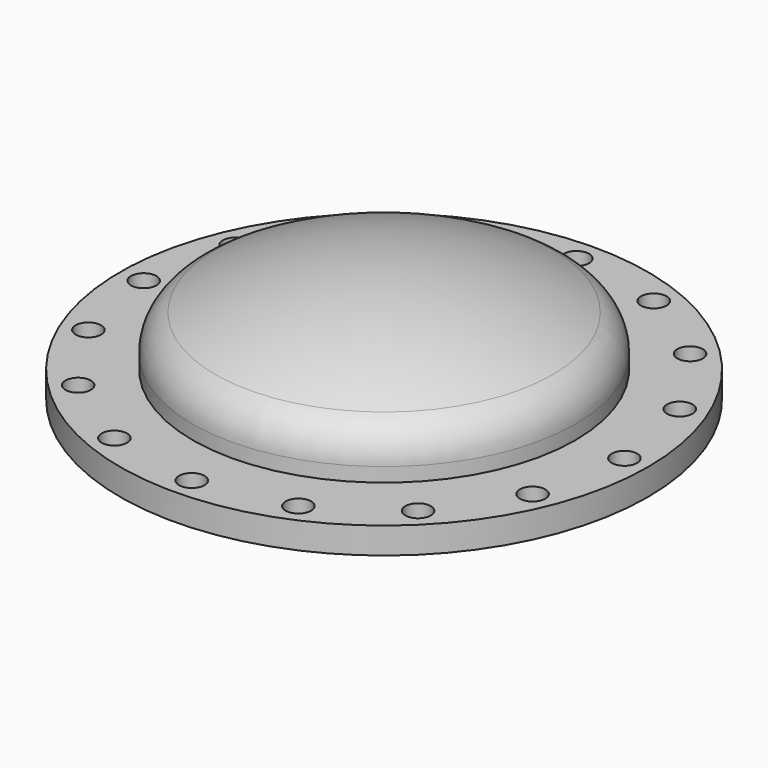
from build123d import *

# Parameters (mm, degrees)
F2_R          = 280
F2_R_2        = 200
F3_DEPTH      = 23
F3_DEPTH_BACK = 5
F4_R          = 13.5
F5_DEPTH      = 28


with BuildPart() as f1:
    # F0 (on Front) → F1 (revolve)
    with BuildSketch(Plane.XZ):
        with BuildLine():
            Line((200, 20), (200, 0))
            Line((200, 0), (203, 0))
            Line((203, 0), (203, 20))
            ThreePointArc((203, 20), (196.549367, 42.652677), (179.132848, 58.508884))
            ThreePointArc((179.132848, 58.508884), (92.000944, 89.915359), (0, 100.6))
            Line((0, 100.6), (0, 97.6))
            ThreePointArc((0, 97.6), (91.315378, 86.994743), (177.797998, 55.822218))
            ThreePointArc((177.797998, 55.822218), (193.999411, 41.072258), (200, 20))
        make_face()
    revolve(axis=Axis((0, 0, 99.1), (0, 0, 1)))

    # F2 (on face) → F3 (join, two sides)
    with BuildSketch(Plane(origin=(0, 0, 0), x_dir=(1, 0, 0), z_dir=(0, 0, -1))) as f3_sk:
        Circle(F2_R)
        Circle(F2_R_2, mode=Mode.SUBTRACT)
    extrude(amount=F3_DEPTH)
    extrude(f3_sk.sketch, amount=-F3_DEPTH_BACK)

    # F4 (on face) → F5 (cut, through all)
    with BuildSketch(Plane.XY.offset(5)):
        with Locations((255, 0)):
            Circle(F4_R)
        with Locations((235.589281, 97.584275)):
            Circle(F4_R)
        with Locations((180.312229, 180.312229)):
            Circle(F4_R)
        with Locations((97.584275, 235.589281)):
            Circle(F4_R)
        with Locations((0, 255)):
            Circle(F4_R)
        with Locations((-97.584275, 235.589281)):
            Circle(F4_R)
        with Locations((-180.312229, 180.312229)):
            Circle(F4_R)
        with Locations((-235.589281, 97.584275)):
            Circle(F4_R)
        with Locations((-255, 0)):
            Circle(F4_R)
        with Locations((-235.589281, -97.584275)):
            Circle(F4_R)
        with Locations((-180.312229, -180.312229)):
            Circle(F4_R)
        with Locations((-97.584275, -235.589281)):
            Circle(F4_R)
        with Locations((0, -255)):
            Circle(F4_R)
        with Locations((97.584275, -235.589281)):
            Circle(F4_R)
        with Locations((180.312229, -180.312229)):
            Circle(F4_R)
        with Locations((235.589281, -97.584275)):
            Circle(F4_R)
    extrude(amount=-F5_DEPTH, mode=Mode.SUBTRACT)


solid = f1.part
